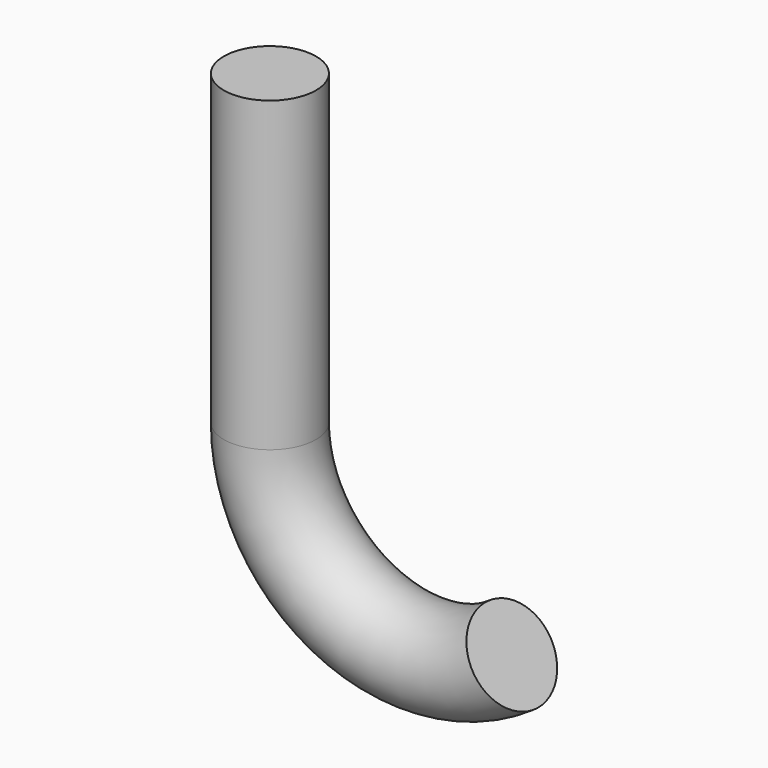
from build123d import *

# Parameters (mm, degrees)
TORUS_R               = 3
TORUS_ANGLE           = 125
TORUS_ROLL_ANGLE      = -90
TORUS_PLACEMENT_ANGLE = 180
CYLINDER_R            = 3
CYLINDER_DEPTH        = 20


with BuildPart() as torus:
    # Torus → Torus (revolve)
    with BuildSketch(Plane.XZ):
        with Locations((10, 0)):
            Circle(TORUS_R)
    revolve(axis=Axis((0, 0, 0), (0, 0, 1)), revolution_arc=TORUS_ANGLE)


with BuildPart() as torus_1:
    # Torus roll: moved
    add(torus.part.rotate(Axis((0, 0, 0), (1, 0, 0)), TORUS_ROLL_ANGLE))


with BuildPart() as torus_2:
    # Torus placement: moved
    add(torus_1.part.moved(Location((10, 0, 0))).rotate(Axis((10, 0, 0), (0, 0, 1)), TORUS_PLACEMENT_ANGLE))


with BuildPart() as fusion:
    # Cylinder → Cylinder (new body)
    with BuildSketch(Plane.XY):
        Circle(CYLINDER_R)
    extrude(amount=CYLINDER_DEPTH)

    # Fusion: union Torus
    add(torus_2.part)


solid = fusion.part
